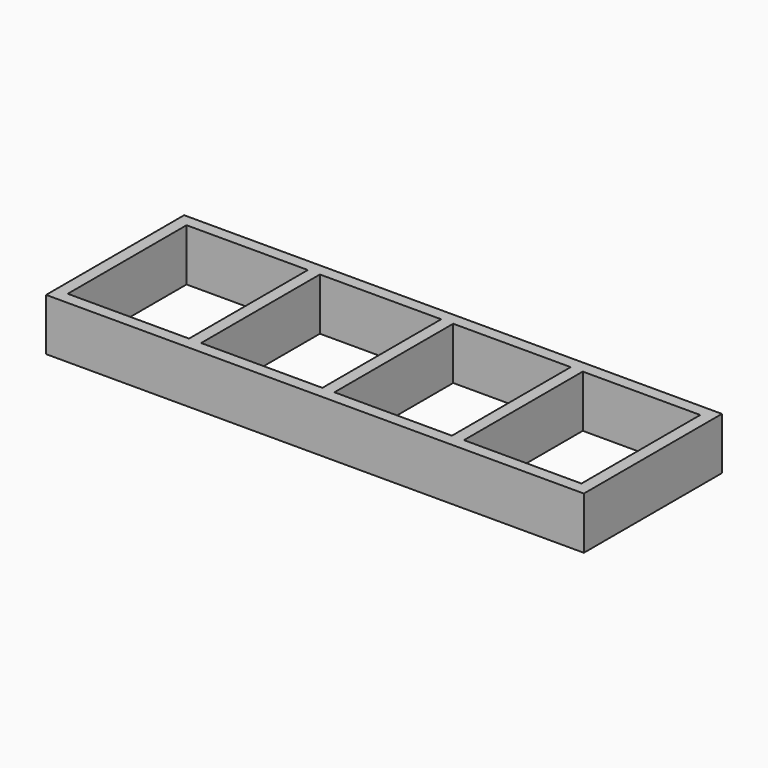
from build123d import *

# Parameters (mm, degrees)
F1_W     = 850.9
F1_H     = 273.05
F1_W_2   = 812.8
F1_H_2   = 234.95
F2_DEPTH = 82.55
F3_W     = 19.05
F3_H     = 234.95
F4_DEPTH = 82.55
F5_W     = 19.05
F5_H     = 234.95
F6_DEPTH = 82.55
F7_W     = 19.05
F7_H     = 234.95
F8_DEPTH = 82.55


with BuildPart() as f2:
    # F1 (on face) → F2 (new body)
    with BuildSketch(Plane.XY):
        Rectangle(F1_W, F1_H)
        Rectangle(F1_W_2, F1_H_2, mode=Mode.SUBTRACT)
    extrude(amount=F2_DEPTH)

    # F3 (on face) → F4 (join)
    with BuildSketch(Plane.XY.offset(82.55)):
        with Locations((6.0091395862, 0)):
            Rectangle(F3_W, F3_H)
    extrude(amount=-F4_DEPTH)

    # F5 (on face) → F6 (join)
    with BuildSketch(Plane.XY.offset(82.55)):
        with Locations((-204.9579302069, 0)):
            Rectangle(F5_W, F5_H)
    extrude(amount=-F6_DEPTH)

    # F7 (on face) → F8 (join)
    with BuildSketch(Plane.XY.offset(82.55)):
        with Locations((210.9670697931, 0)):
            Rectangle(F7_W, F7_H)
    extrude(amount=-F8_DEPTH)


solid = f2.part
